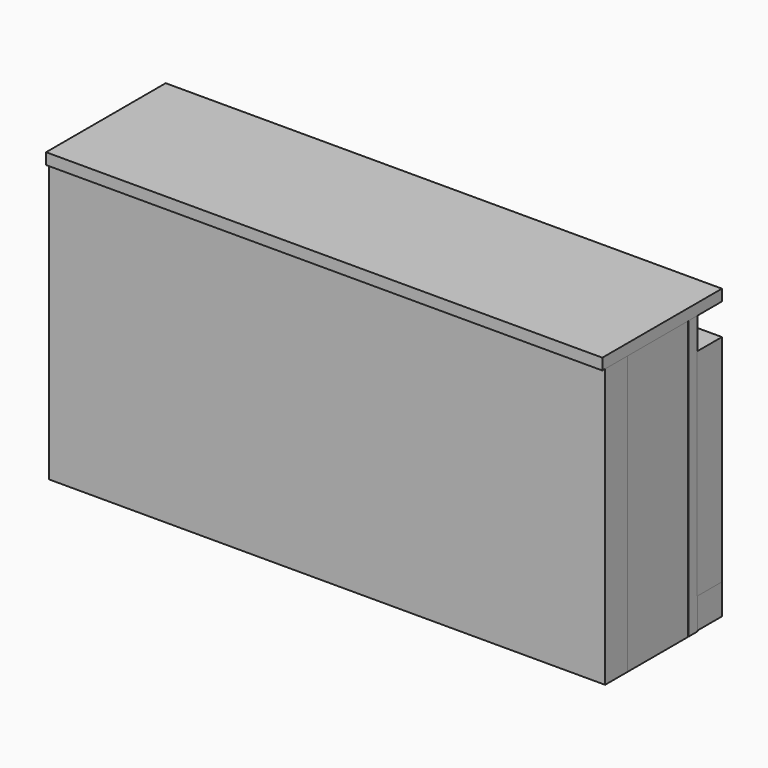
from build123d import *

# Parameters (mm, degrees)
PAD_DEPTH    = 320
PAD001_DEPTH = 160
SKETCH002_W  = 18
SKETCH002_H  = 18
PAD002_DEPTH = 320
SKETCH003_W  = 18
SKETCH003_H  = 18
PAD003_DEPTH = 272
SKETCH004_W  = 6.5
SKETCH004_H  = 160
PAD004_DEPTH = 320
SKETCH005_W  = 18
SKETCH005_H  = 124
PAD005_DEPTH = 18
SKETCH006_W  = 16
SKETCH006_H  = 160
PAD006_DEPTH = 320


with BuildPart() as bottom:
    # Sketch → Pad (new body)
    with BuildSketch(Plane.YZ):
        Polygon((86, 0), (86, 6.5), (68, 6.5), (61.5, 6.5), (43.5, 6.5), (17.5, 6.5), (1.5, 6.5), (0, 6.5), (0, 0), (1.5, 0), (17.5, 0), (43.5, 0), (61.5, 0), (68, 0), align=None)
    extrude(amount=PAD_DEPTH)


with BuildPart() as bottom_1:
    # Body placement: moved
    add(bottom.part.moved(Location((0, 0, -0.5))))


with BuildPart() as bottom_2:
    # Clone placement: moved
    add(bottom_1.part.moved(Location((0, 0, 0.5))))


with BuildPart() as bottom_3:
    # Body001 placement: moved
    add(bottom_2.part.moved(Location((0, 0, 166))))


with BuildPart() as leftpillar:
    # Sketch001 → Pad001 (new body)
    with BuildSketch(Plane.XY):
        Polygon((24, 0), (0, 0), (0, 44), (24, 44), (24, 26), align=None)
    extrude(amount=PAD001_DEPTH)


with BuildPart() as leftpillar_1:
    # Body002 placement: moved
    add(leftpillar.part.moved(Location((0, 17.5, 6))))


with BuildPart() as leftpillar_2:
    # Clone001 placement: moved
    add(leftpillar_1.part.moved(Location((296, 0, 0))))


with BuildPart() as topedge:
    # Sketch002 → Pad002 (new body)
    with BuildSketch(Plane.YZ):
        with Locations((59, 151)):
            Rectangle(SKETCH002_W, SKETCH002_H)
    extrude(amount=PAD002_DEPTH)


with BuildPart() as topedge_1:
    # Body004 placement: moved
    add(topedge.part.moved(Location((0, 18, 6))))


with BuildPart() as topedge_2:
    # Clone002 placement: moved
    add(topedge_1.part.moved(Location((0, 0, -141.5))))


with BuildPart() as topinternaledge:
    # Sketch003 → Pad003 (new body)
    with BuildSketch(Plane.YZ):
        with Locations((53, 9)):
            Rectangle(SKETCH003_W, SKETCH003_H)
    extrude(amount=PAD003_DEPTH)


with BuildPart() as topinternaledge_1:
    # Body006 placement: moved
    add(topinternaledge.part.moved(Location((24, 0, 6))))


with BuildPart() as back:
    # Sketch004 → Pad004 (new body)
    with BuildSketch(Plane.YZ):
        with Locations((65.25, 80)):
            Rectangle(SKETCH004_W, SKETCH004_H)
    extrude(amount=PAD004_DEPTH)


with BuildPart() as back_1:
    # Body007 placement: moved
    add(back.part.moved(Location((0, 0, 6))))


with BuildPart() as handleleft:
    # Sketch005 → Pad005 (new body)
    with BuildSketch(Plane.YZ):
        with Locations((77, 80)):
            Rectangle(SKETCH005_W, SKETCH005_H)
    extrude(amount=PAD005_DEPTH)


with BuildPart() as handleleft_1:
    # Body008 placement: moved
    add(handleleft.part.moved(Location((0, 0, 6))))


with BuildPart() as handleleft_2:
    # Clone003 placement: moved
    add(handleleft_1.part.moved(Location((0, 0, -6))))


with BuildPart() as handleleft_3:
    # Body009 placement: moved
    add(handleleft_2.part.moved(Location((302, 0, 6))))


with BuildPart() as p5panel:
    # Sketch006 → Pad006 (new body)
    with BuildSketch(Plane.YZ):
        with Locations((10, 80)):
            Rectangle(SKETCH006_W, SKETCH006_H)
    extrude(amount=PAD006_DEPTH)


with BuildPart() as p5panel_1:
    # Body010 placement: moved
    add(p5panel.part.moved(Location((0, 0, 6))))


solid = Compound([bottom_3.part, leftpillar_2.part, topedge_2.part, topinternaledge_1.part, back_1.part, handleleft_3.part, p5panel_1.part])
